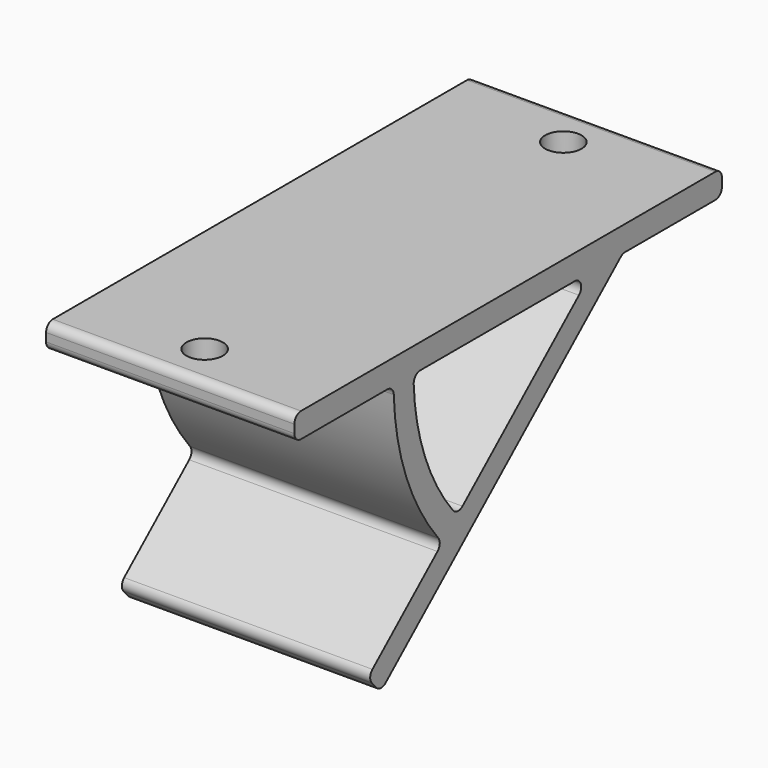
from build123d import *

# Parameters (mm, degrees)
PAD010_DEPTH      = 15
PAD010_DEPTH_BACK = 15
SKETCH020_R       = 2.2
POCKET004_DEPTH   = 5
FILLET009_R       = 1


with BuildPart() as part:
    # Sketch019 → Pad010 (new body, two sides)
    with BuildSketch(Plane.YZ) as pad010_sk:
        with BuildLine():
            Line((-49.572759, 0), (-49.572759, -3))
            Line((-49.572759, -3), (-34.572759, -3))
            ThreePointArc((-34.572759, -3), (-32.672925, -13.506221), (-27.214047, -22.681771))
            Line((-38.53469, -32.522656), (-27.214047, -22.681771))
            Line((-38.53469, -32.522656), (-36.566513, -34.786785))
            Line((-36.566513, -34.786785), (0, -3))
            Line((0, -3), (15, -3))
            Line((15, 0), (15, -3))
            Line((15, 0), (-49.572759, 0))
        make_face()
        with BuildLine():
            Line((-4.572759, -3), (-24.949918, -20.713594))
            ThreePointArc((-31.572759, -3), (-29.862908, -12.455599), (-24.949918, -20.713594))
            Line((-31.572759, -3), (-4.572759, -3))
        make_face(mode=Mode.SUBTRACT)
    extrude(amount=-PAD010_DEPTH)
    extrude(pad010_sk.sketch, amount=PAD010_DEPTH_BACK)

    # Sketch020 → Pocket004 (cut)
    with BuildSketch(Plane.XY):
        with Locations((0, 9.8)):
            Circle(SKETCH020_R)
        with Locations((0, -44.372759)):
            Circle(SKETCH020_R)
    extrude(amount=-POCKET004_DEPTH, mode=Mode.SUBTRACT)

    # Fillet009
    fillet009_edges = [part.edges().sort_by_distance(p)[0] for p in [
        (0, -49.572759, 0),
        (0, -49.572759, -3),
        (0, -34.572759, -3),
        (0, -27.214047, -22.681771),
        (0, -38.53469, -32.522656),
        (0, -36.566513, -34.786785),
        (0, -31.572759, -3),
        (0, -4.572759, -3),
        (0, -24.949918, -20.713594),
        (0, 15, 0),
        (0, 15, -3),
        (0, 0, -3),
    ]]
    fillet(fillet009_edges, radius=FILLET009_R)


solid = part.part
